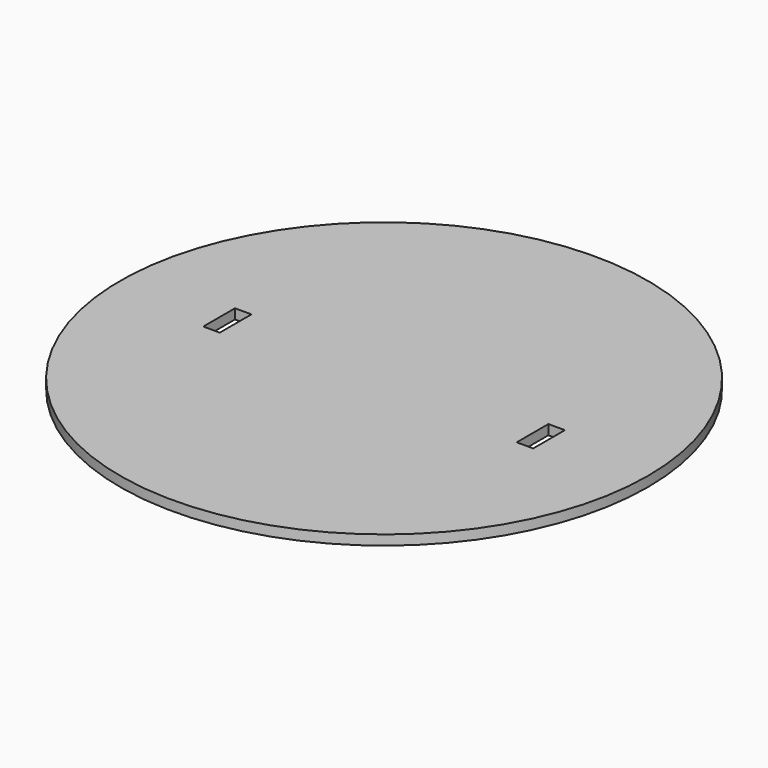
from build123d import *

# Parameters (mm, degrees)
SKETCH_R  = 80
SKETCH_W  = 5
SKETCH_H  = 12
PAD_DEPTH = 3


with BuildPart() as part:
    # Sketch → Pad (new body)
    with BuildSketch(Plane.XY):
        Circle(SKETCH_R)
        with Locations((-47.5, 0)):
            Rectangle(SKETCH_W, SKETCH_H, mode=Mode.SUBTRACT)
        with Locations((47.5, 0)):
            Rectangle(SKETCH_W, SKETCH_H, mode=Mode.SUBTRACT)
    extrude(amount=PAD_DEPTH)


solid = part.part
